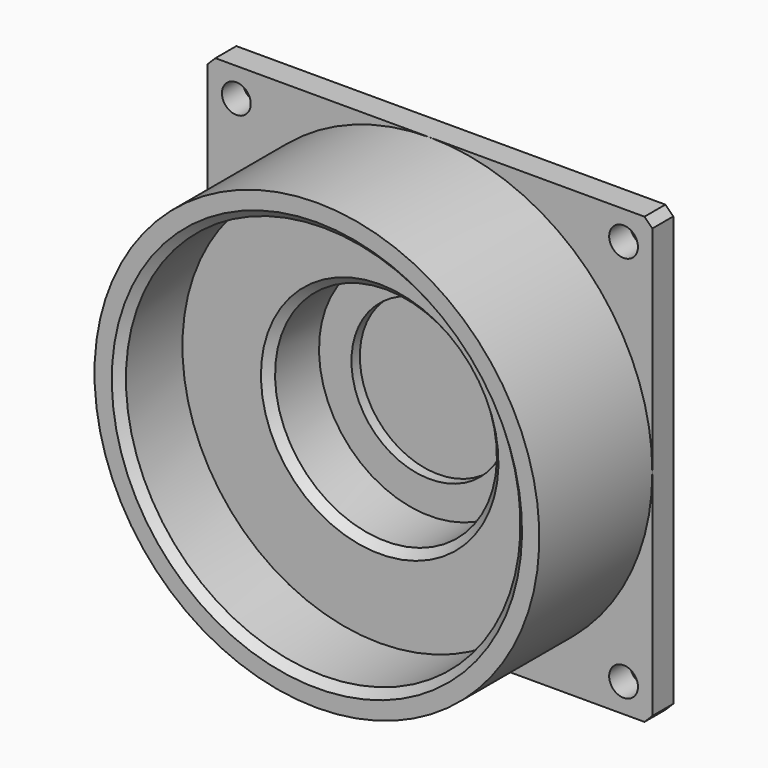
from build123d import *

# Parameters (mm, degrees)
F2_W     = 85
F2_H     = 85
F2_R     = 2.75
F3_DEPTH = 5
F4_SIZE  = 1.5
F5_R     = 15
F6_DEPTH = 2


with BuildPart() as f1:
    # F0 (on Right) → F1 (revolve)
    with BuildSketch(Plane.YZ):
        Polygon((-5, 0), (0, 0), (0, 42.5), (-32, 42.5), (-32, 37.7), (-17, 37.7), (-17, 21.2), (-5, 21.2), align=None)
    revolve(axis=Axis((0, -2.5, 0), (0, 1, 0)))

    # F2 (on Front) → F3 (join)
    with BuildSketch(Plane.XZ):
        Rectangle(F2_W, F2_H)
        with Locations((-37, -37)):
            Circle(F2_R, mode=Mode.SUBTRACT)
        with Locations((37, -37)):
            Circle(F2_R, mode=Mode.SUBTRACT)
        with Locations((-37, 37)):
            Circle(F2_R, mode=Mode.SUBTRACT)
        with Locations((37, 37)):
            Circle(F2_R, mode=Mode.SUBTRACT)
    extrude(amount=F3_DEPTH)

    # F4
    f4_edges = [f1.edges().sort_by_distance(p)[0] for p in [
        (0, -32, -37.7),
        (0, -17, -21.2),
        (42.5, -2.5, 42.5),
        (-42.5, -2.5, 42.5),
        (-42.5, -2.5, -42.5),
        (42.5, -2.5, -42.5),
    ]]
    chamfer(f4_edges, length=F4_SIZE)

    # F5 (on face) → F6 (cut)
    with BuildSketch(Plane.XZ.offset(5)):
        Circle(F5_R)
    extrude(amount=-F6_DEPTH, mode=Mode.SUBTRACT)


solid = f1.part
